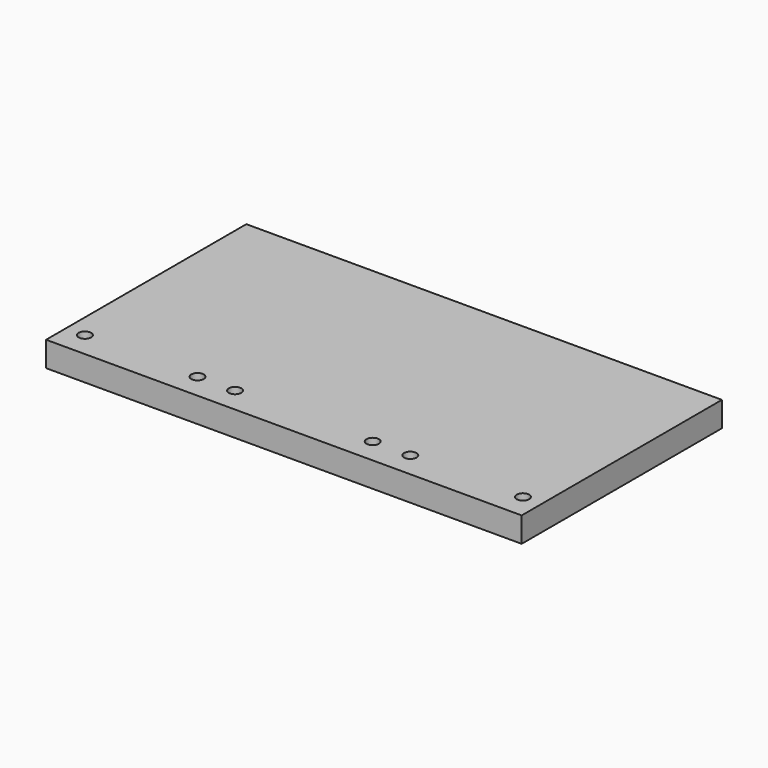
from build123d import *

# Parameters (mm, degrees)
SKETCH_W               = 190
SKETCH_H               = 100
PAD_DEPTH              = 10
SKETCH001_R            = 2.5
HOLE_DEPTH             = 10.001
SKETCH002_R            = 2.5
HOLE001_DEPTH          = 10.001
LINEARPATTERN_COUNT    = 2
LINEARPATTERN_PITCH    = 15
LINEARPATTERN001_COUNT = 2
LINEARPATTERN001_PITCH = 70
LINEARPATTERN002_COUNT = 2
LINEARPATTERN002_PITCH = 85
LINEARPATTERN003_COUNT = 2
LINEARPATTERN003_PITCH = 130


with BuildPart() as part:
    # Sketch → Pad (new body)
    with BuildSketch(Plane.XY):
        with Locations((95, 50)):
            Rectangle(SKETCH_W, SKETCH_H)
    extrude(amount=PAD_DEPTH)

    # Sketch001 (on Face6 of Pad) → Hole (cut, through all)
    with BuildSketch(Plane.XY.offset(10)):
        with Locations((7.5, 10)):
            Circle(SKETCH001_R)
    extrude(amount=-HOLE_DEPTH, mode=Mode.SUBTRACT)

    # Sketch002 (on Face5 of Hole) → Hole001 (cut, through all)
    with BuildSketch(Plane.XY.offset(10)):
        with Locations((52.5, 10)):
            Circle(SKETCH002_R)
    hole001 = extrude(amount=-HOLE001_DEPTH, mode=Mode.SUBTRACT)

    # LinearPattern: Hole001 ×2
    with Locations(*[(i * LINEARPATTERN_PITCH, 0, 0) for i in range(1, LINEARPATTERN_COUNT)]):
        add(hole001, mode=Mode.SUBTRACT)

    # LinearPattern001: Hole001 ×2
    with Locations(*[(i * LINEARPATTERN001_PITCH, 0, 0) for i in range(1, LINEARPATTERN001_COUNT)]):
        add(hole001, mode=Mode.SUBTRACT)

    # LinearPattern002: Hole001 ×2
    with Locations(*[(i * LINEARPATTERN002_PITCH, 0, 0) for i in range(1, LINEARPATTERN002_COUNT)]):
        add(hole001, mode=Mode.SUBTRACT)

    # LinearPattern003: Hole001 ×2
    with Locations(*[(i * LINEARPATTERN003_PITCH, 0, 0) for i in range(1, LINEARPATTERN003_COUNT)]):
        add(hole001, mode=Mode.SUBTRACT)


solid = part.part
